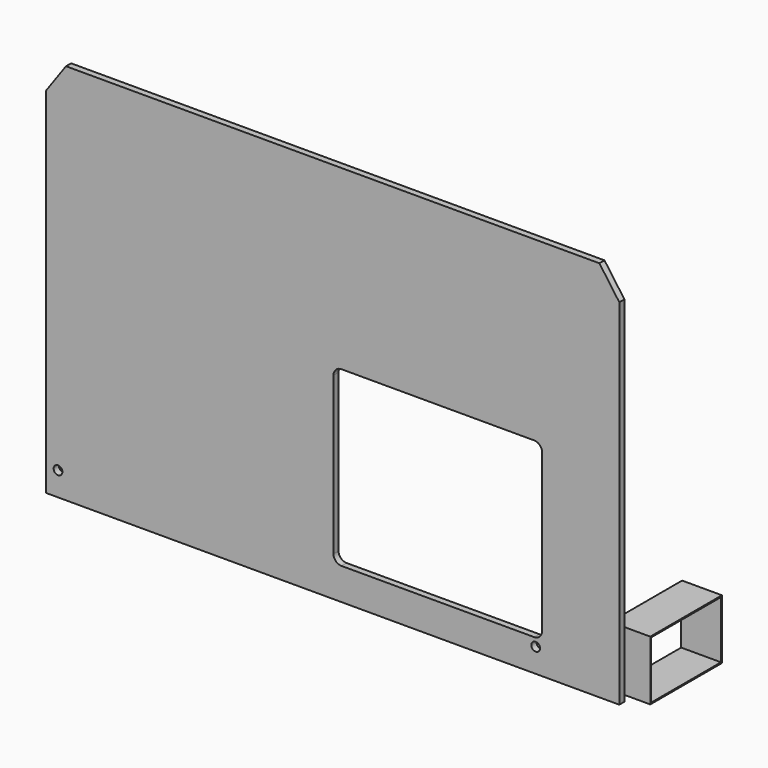
from build123d import *

# Parameters (mm, degrees)
F1_R     = 5.5
F2_DEPTH = 8
F3_W     = 112.5
F3_H     = 75
F3_W_2   = 109.5
F3_H_2   = 72
F4_DEPTH = 50


with BuildPart() as f2:
    # F1 (on Front) → F2 (new body)
    with BuildSketch(Plane.XZ):
        Polygon((80, 450), (-590, 450), (-615, 415), (-615, -30), (105, -30), (105, 415), align=None)
        with Locations((-600, 0)):
            Circle(F1_R, mode=Mode.SUBTRACT)
        Circle(F1_R, mode=Mode.SUBTRACT)
        with BuildLine():
            ThreePointArc((-254, 217.5), (-251.0710678119, 224.5710678119), (-244, 227.5))
            Line((-244, 227.5), (-2, 227.5))
            ThreePointArc((-2, 227.5), (5.0710678119, 224.5710678119), (8, 217.5))
            Line((8, 217.5), (8, 20))
            ThreePointArc((8, 20), (5.0710678119, 12.9289321881), (-2, 10))
            Line((-2, 10), (-244, 10))
            ThreePointArc((-244, 10), (-251.0710678119, 12.9289321881), (-254, 20))
            Line((-254, 20), (-254, 217.5))
        make_face(mode=Mode.SUBTRACT)
    extrude(amount=-F2_DEPTH)


with BuildPart() as f4:
    # F3 (on Right) → F4 (new body)
    with BuildSketch(Plane.YZ):
        with Locations((236.0989015299, -99.447497502)):
            Rectangle(F3_W, F3_H)
        with Locations((236.0989015299, -99.447497502)):
            Rectangle(F3_W_2, F3_H_2, mode=Mode.SUBTRACT)
    extrude(amount=-F4_DEPTH)


solid = Compound([f2.part, f4.part])
